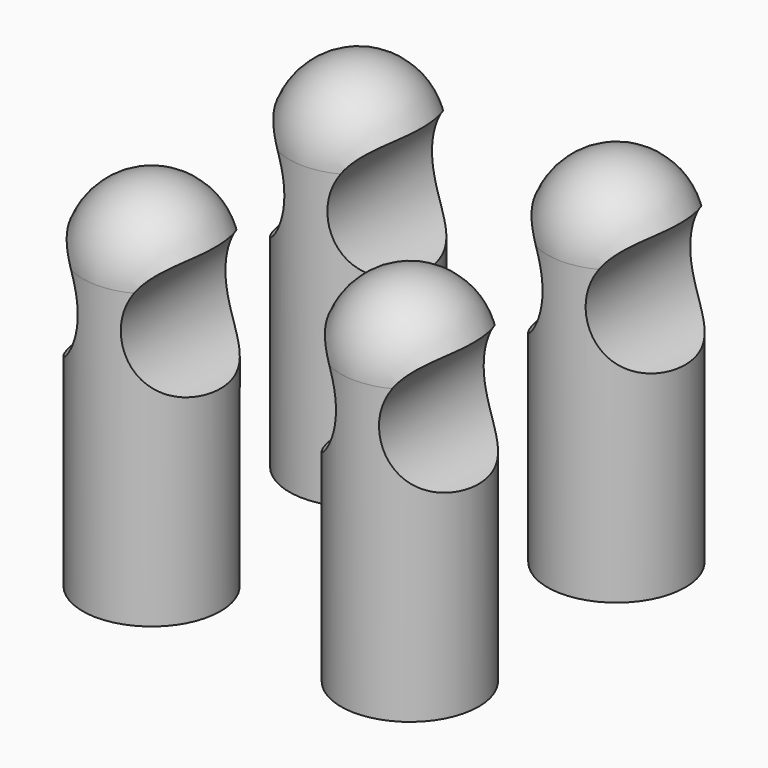
from build123d import *

# Parameters (mm, degrees)
F0_R          = 4
F1_DEPTH      = 17
F3_ANGLE      = 180
F4_R          = 3.75
F5_DEPTH      = 4.001
F5_DEPTH_BACK = 4.001


with BuildPart() as f1:
    # F0 (on Top) → F1 (new body)
    with BuildSketch(Plane.XY):
        Circle(F0_R)
    extrude(amount=F1_DEPTH)

    # F2 (on face) → F3 (revolve)
    with BuildSketch(Plane.XY.offset(17)):
        with BuildLine():
            Line((0, 4), (0, -4))
            ThreePointArc((0, -4), (4, 0), (0, 4))
        make_face()
    revolve(axis=Axis((0, 0, 17), (0, -1, 0)), revolution_arc=F3_ANGLE)

    # F4 (on Front) → F5 (cut, two sides)
    with BuildSketch(Plane.XZ) as f5_sk:
        with Locations((-5, 15)):
            Circle(F4_R)
        with Locations((5, 15)):
            Circle(F4_R)
    extrude(amount=-F5_DEPTH, mode=Mode.SUBTRACT)
    extrude(f5_sk.sketch, amount=F5_DEPTH_BACK, mode=Mode.SUBTRACT)


with BuildPart() as f6_1:
    # F6: copy of F1
    add(f1.part.moved(Location((15, 0, 0))))


with BuildPart() as f7_1:
    # F7: copy of F1
    add(f1.part.moved(Location((0, 15, 0))))


with BuildPart() as f7_2:
    # F7: copy of F6_1
    add(f6_1.part.moved(Location((0, 15, 0))))


solid = Compound([f1.part, f6_1.part, f7_1.part, f7_2.part])
